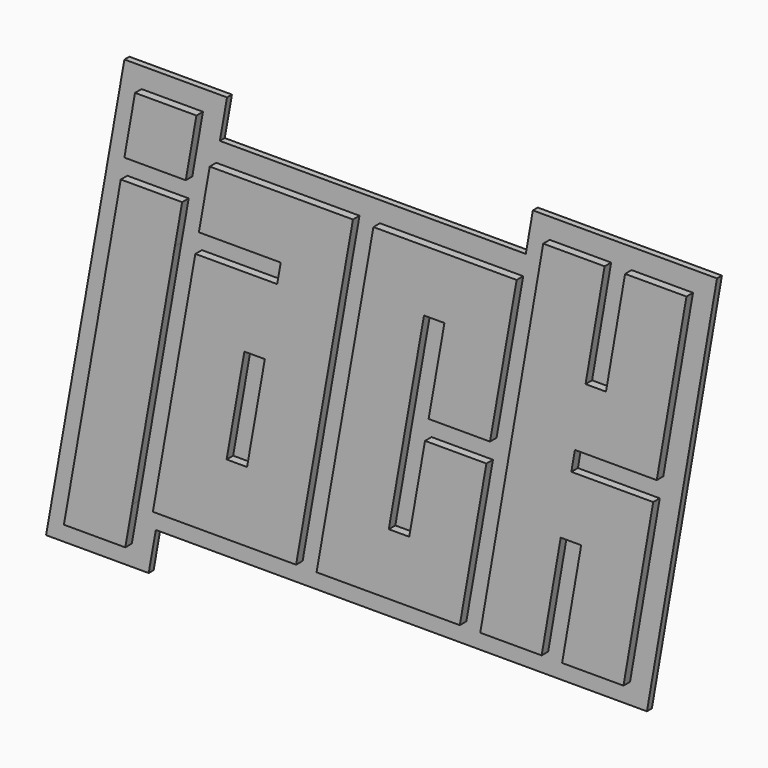
from build123d import *

# Parameters (mm, degrees)
F1_DEPTH = 0.762
F2_DEPTH = 1.778


with BuildPart() as f1:
    # F0 (on Front) → F1 (new body)
    with BuildSketch(Plane.XZ):
        Polygon((-2.501412, 0.441066), (-3.909187, -7.542823), (8.829997, -7.542823), (9.712129, -2.54), (70.679427, -2.54), (79.377093, 47.603999), (56.517093, 47.603999), (55.642641, 42.562587), (17.664932, 42.562587), (18.553869, 47.603999), (5.814686, 47.603999), align=None)
        Polygon((-0.882133, -5.002823), (0, 0), (6.174929, 35.019764), (13.794929, 35.019764), (12.892384, 29.901175), (7.62, 0), (6.737867, -5.002823), align=None, mode=Mode.SUBTRACT)
        Polygon((10.16, 0), (15.432384, 29.901175), (25.592384, 29.901175), (26.03345, 32.402587), (15.87345, 32.402587), (17.217062, 40.022587), (34.997062, 40.022587), (27.94, 0), align=None, mode=Mode.SUBTRACT)
        Polygon((48.26, 0), (30.48, 0), (37.537062, 40.022587), (55.317062, 40.022587), (52.012466, 21.281294), (44.392466, 21.281294), (46.35345, 32.402587), (43.81345, 32.402587), (39.443612, 7.62), (41.983612, 7.62), (43.944596, 18.741294), (51.564596, 18.741294), align=None, mode=Mode.SUBTRACT)
        Polygon((14.2428, 37.559764), (6.6228, 37.559764), (7.945999, 45.063999), (15.565999, 45.063999), align=None, mode=Mode.SUBTRACT)
        Polygon((50.8, 0), (58.61652, 45.063999), (66.23652, 45.063999), (63.870264, 31.421999), (66.410264, 31.421999), (68.77652, 45.063999), (76.39652, 45.063999), (72.708546, 23.801999), (62.548546, 23.801999), (62.107974, 21.261999), (72.267974, 21.261999), (68.58, 0), (60.96, 0), (63.326256, 13.641999), (60.786256, 13.641999), (58.42, 0), align=None, mode=Mode.SUBTRACT)
        Polygon((24.058858, 21.204117), (21.518858, 21.204117), (19.313526, 8.697058), (21.853526, 8.697058), align=None)
    extrude(amount=F1_DEPTH)

    # F0 (on Front) → F2 (join)
    with BuildSketch(Plane.XZ):
        Polygon((6.174929, 35.019764), (0, 0), (7.62, 0), (12.892384, 29.901175), (13.794929, 35.019764), align=None)
        Polygon((7.62, 0), (0, 0), (-0.882133, -5.002823), (6.737867, -5.002823), align=None)
        Polygon((7.945999, 45.063999), (6.6228, 37.559764), (14.2428, 37.559764), (15.565999, 45.063999), align=None)
        Polygon((25.592384, 29.901175), (15.432384, 29.901175), (10.16, 0), (27.94, 0), (34.997062, 40.022587), (17.217062, 40.022587), (15.87345, 32.402587), (26.03345, 32.402587), align=None)
        Polygon((19.313526, 8.697058), (21.518858, 21.204117), (24.058858, 21.204117), (21.853526, 8.697058), align=None, mode=Mode.SUBTRACT)
        Polygon((37.537062, 40.022587), (30.48, 0), (48.26, 0), (51.564596, 18.741294), (43.944596, 18.741294), (41.983612, 7.62), (39.443612, 7.62), (43.81345, 32.402587), (46.35345, 32.402587), (44.392466, 21.281294), (52.012466, 21.281294), (55.317062, 40.022587), align=None)
        Polygon((66.23652, 45.063999), (58.61652, 45.063999), (50.8, 0), (58.42, 0), (60.786256, 13.641999), (63.326256, 13.641999), (60.96, 0), (68.58, 0), (72.267974, 21.261999), (62.107974, 21.261999), (62.548546, 23.801999), (72.708546, 23.801999), (76.39652, 45.063999), (68.77652, 45.063999), (66.410264, 31.421999), (63.870264, 31.421999), align=None)
    extrude(amount=F2_DEPTH)


solid = f1.part
